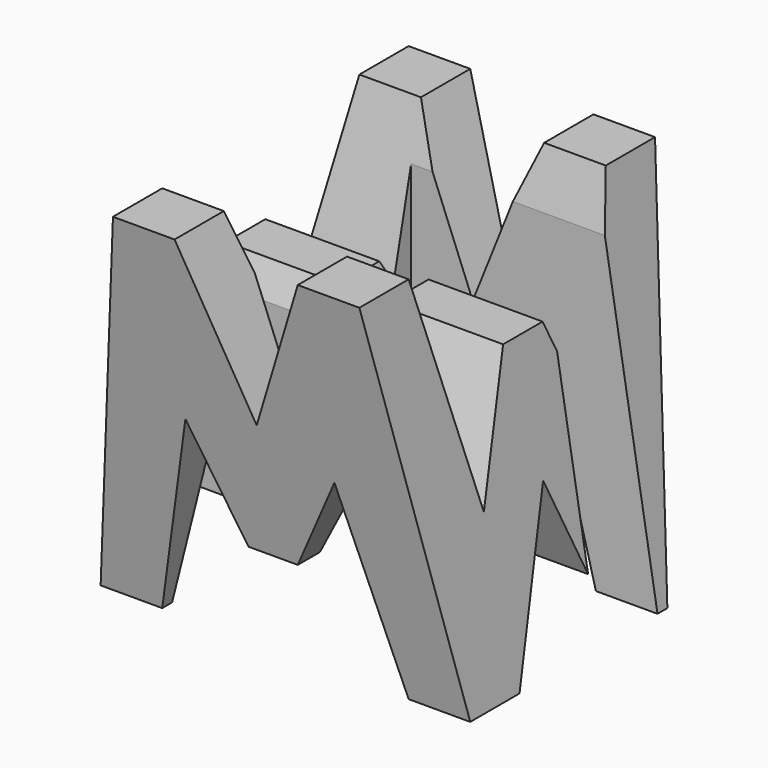
from build123d import *

# Parameters (mm, degrees)
F0_W      = 38.1
F0_H      = 38.1
F1_DEPTH  = 38.1
F6_DEPTH  = 38.1
F8_DEPTH  = 38.1
F9_W      = 25.4
F9_H      = 7.62
F10_DEPTH = 38.1


with BuildPart() as f1:
    # F0 (on Front) → F1 (new body)
    with BuildSketch(Plane.XZ):
        with Locations((19.05, 19.05)):
            Rectangle(F0_W, F0_H)
    extrude(amount=F1_DEPTH)

    # F5 (on offset) → F6 (cut)
    with BuildSketch(Plane.YZ.offset(38.1)):
        Polygon((-11.400602, 16.104914), (-6.35, 38.1), (-31.75, 38.1), (-26.640602, 16.104914), (-21.560602, 28.575), (-16.480602, 28.575), align=None)
        Polygon((-6.35, 0), (0, 0), (0, 38.1), align=None)
        Polygon((-25.4, 0), (-12.7, 0), (-19.05, 15.875), align=None)
        Polygon((-38.1, 0), (-31.75, 0), (-38.1, 38.1), align=None)
    extrude(amount=-F6_DEPTH, mode=Mode.SUBTRACT)

    # F7 (on offset) → F8 (cut)
    with BuildSketch(Plane.XZ.offset(38.1)):
        Polygon((0, 38.1), (0, 0), (6.35, 38.1), align=None)
        Polygon((25.4, 38.1), (12.7, 38.1), (19.05, 22.225), align=None)
        Polygon((31.75, 38.1), (38.1, 0), (38.1, 38.1), align=None)
        Polygon((11.43, 20.184822), (6.35, 0), (31.75, 0), (26.67, 19.299196), (21.59, 9.525), (16.51, 9.525), align=None)
    extrude(amount=-F8_DEPTH, mode=Mode.SUBTRACT)

    # F9 (on offset) → F10 (cut)
    with BuildSketch(Plane.XY.offset(38.1)):
        with Locations((12.7, -26.67)):
            Rectangle(F9_W, F9_H)
        with Locations((25.4, -11.43)):
            Rectangle(F9_W, F9_H)
    extrude(amount=-F10_DEPTH, mode=Mode.SUBTRACT)


solid = f1.part
